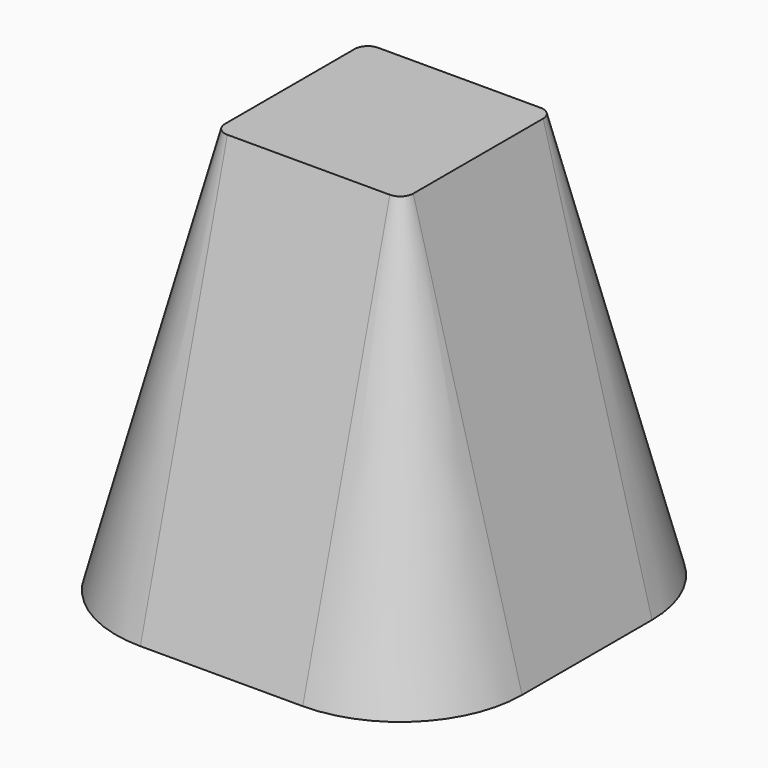
from build123d import *

# Parameters (mm, degrees)
F1_DEPTH = 12.7
F1_TAPER = 15
F4_DEPTH = 25.4
F4_TAPER = -15


with BuildPart() as f1:
    # F0 (on Top) → F1 (new body)
    with BuildSketch(Plane.XY):
        with BuildLine():
            ThreePointArc((6.35, 2.54), (5.2340768363, 5.2340768363), (2.54, 6.35))
            Line((2.54, 6.35), (-2.54, 6.35))
            ThreePointArc((-2.54, 6.35), (-5.2340768363, 5.2340768363), (-6.35, 2.54))
            Line((-6.35, 2.54), (-6.35, -2.54))
            ThreePointArc((-6.35, -2.54), (-5.2340768363, -5.2340768363), (-2.54, -6.35))
            Line((-2.54, -6.35), (2.54, -6.35))
            ThreePointArc((2.54, -6.35), (5.2340768363, -5.2340768363), (6.35, -2.54))
            Line((6.35, -2.54), (6.35, 2.54))
        make_face()
    extrude(amount=F1_DEPTH, taper=F1_TAPER)

    # F3 (on offset) → F4 (cut)
    with BuildSketch(Plane.XY.offset(7.62)):
        with BuildLine():
            ThreePointArc((-2.9470452561, -2.54), (-2.8278244609, -2.8278244609), (-2.54, -2.9470452561))
            Line((-2.54, -2.9470452561), (2.54, -2.9470452561))
            ThreePointArc((2.54, -2.9470452561), (2.8278244609, -2.8278244609), (2.9470452561, -2.54))
            Line((2.9470452561, -2.54), (2.9470452561, 2.54))
            ThreePointArc((2.9470452561, 2.54), (2.8278244609, 2.8278244609), (2.54, 2.9470452561))
            Line((2.54, 2.9470452561), (-2.54, 2.9470452561))
            ThreePointArc((-2.54, 2.9470452561), (-2.8278244609, 2.8278244609), (-2.9470452561, 2.54))
            Line((-2.9470452561, 2.54), (-2.9470452561, -2.54))
        make_face()
    extrude(amount=-F4_DEPTH, taper=F4_TAPER, mode=Mode.SUBTRACT)


solid = f1.part
